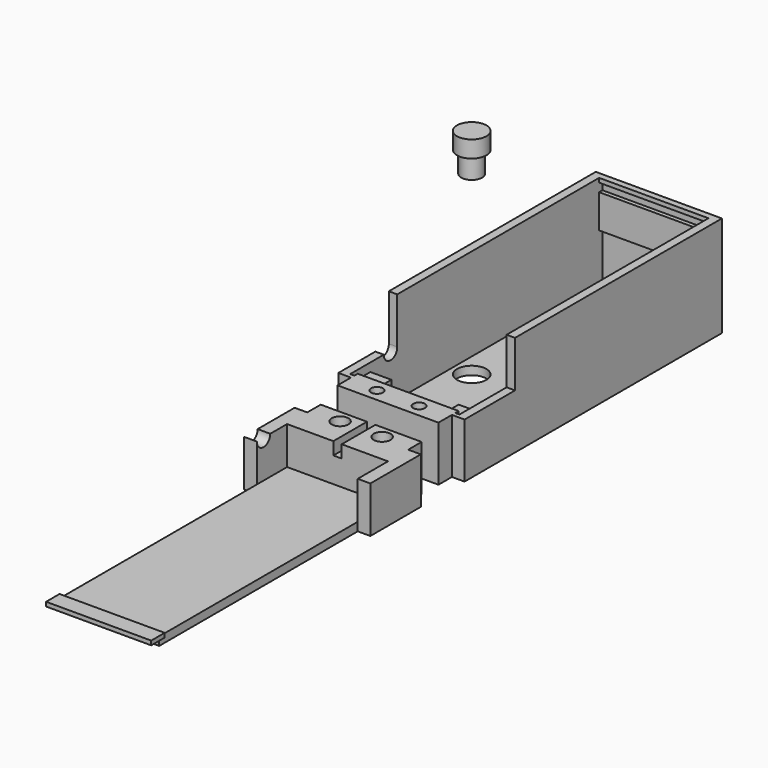
from build123d import *

# Parameters (mm, degrees)
CYLINDER_R                = 1
CYLINDER_DEPTH            = 10
CYLINDER_ROLL_ANGLE       = 90
BOX006_W                  = 9
BOX006_H                  = 5
BOX006_DEPTH              = 3
CYLINDER001_R             = 2
CYLINDER001_DEPTH         = 10
CYLINDER001_PITCH_ANGLE   = 90
BOX012_W                  = 2
BOX012_H                  = 10
BOX012_DEPTH              = 2
CYLINDER002_R             = 3.5
CYLINDER002_DEPTH         = 10
CYLINDER003_R             = 2
CYLINDER003_DEPTH         = 10
CYLINDER004_R             = 2
CYLINDER004_DEPTH         = 10
CYLINDER006_R             = 1.4
CYLINDER006_DEPTH         = 7
CYLINDER005_R             = 1.4
CYLINDER005_DEPTH         = 7
BOX011_W                  = 30
BOX011_H                  = 20
BOX011_DEPTH              = 11
BOX008_W                  = 5
BOX008_H                  = 5
BOX008_DEPTH              = 9
BOX009_W                  = 5
BOX009_H                  = 5
BOX009_DEPTH              = 3
BOX_W                     = 26
BOX_H                     = 75
BOX_DEPTH                 = 22
BOX001_W                  = 30
BOX001_H                  = 76.5
BOX001_DEPTH              = 24
BOX013_W                  = 30
BOX013_H                  = 1
BOX013_DEPTH              = 1
BOX014_W                  = 24
BOX014_H                  = 6
BOX014_DEPTH              = 16
BOX015_W                  = 30
BOX015_H                  = 1
BOX015_DEPTH              = 8
BOX007_W                  = 5
BOX007_H                  = 5
BOX007_DEPTH              = 9
BOX021_W                  = 2
BOX021_H                  = 21
BOX021_DEPTH              = 3
CYLINDER007_R             = 2
CYLINDER007_DEPTH         = 10
CYLINDER007_PITCH_ANGLE   = 90
CYLINDER008_R             = 2
CYLINDER008_DEPTH         = 12
CYLINDER009_R             = 2
CYLINDER009_DEPTH         = 12
BOX019_W                  = 25
BOX019_H                  = 4
BOX019_DEPTH              = 1
BOX018_W                  = 3
BOX018_H                  = 15
BOX018_DEPTH              = 11
BOX017_W                  = 3
BOX017_H                  = 15
BOX017_DEPTH              = 11
BOX016_W                  = 24
BOX016_H                  = 10
BOX016_DEPTH              = 11
BOX020_W                  = 24
BOX020_H                  = 72
BOX020_DEPTH              = 2
CUT003_PLACEMENT_ANGLE    = 180
CYLINDER011_R             = 3.5
CYLINDER011_DEPTH         = 4
CYLINDER010_R             = 2.5
CYLINDER010_DEPTH         = 9
FUSION008_PLACEMENT_ANGLE = 180


with BuildPart() as cylinder:
    # Cylinder → Cylinder (new body)
    with BuildSketch(Plane.XY):
        Circle(CYLINDER_R)
    extrude(amount=CYLINDER_DEPTH)


with BuildPart() as cylinder_1:
    # Cylinder roll: moved
    add(cylinder.part.rotate(Axis((0, 0, 0), (1, 0, 0)), CYLINDER_ROLL_ANGLE))


with BuildPart() as cylinder_2:
    # Cylinder placement: moved
    add(cylinder_1.part.moved(Location((15, 2, 14))))


with BuildPart() as cube006:
    # Box006 → Box006 (new body)
    with BuildSketch(Plane(origin=(10, 71, 5), x_dir=(1, 0, 0), z_dir=(0, 0, 1))):
        with Locations((4.5, 2.5)):
            Rectangle(BOX006_W, BOX006_H)
    extrude(amount=BOX006_DEPTH)


with BuildPart() as cylinder001:
    # Cylinder001 → Cylinder001 (new body)
    with BuildSketch(Plane.XY):
        Circle(CYLINDER001_R)
    extrude(amount=CYLINDER001_DEPTH)


with BuildPart() as cylinder001_1:
    # Cylinder001 pitch: moved
    add(cylinder001.part.rotate(Axis((0, 0, 0), (0, 1, 0)), CYLINDER001_PITCH_ANGLE))


with BuildPart() as cylinder001_2:
    # Cylinder001 placement: moved
    add(cylinder001_1.part.moved(Location((-4, 11, 13))))


with BuildPart() as cube012:
    # Box012 → Box012 (new body)
    with BuildSketch(Plane(origin=(14, -8, 14), x_dir=(1, 0, 0), z_dir=(0, 0, 1))):
        with Locations((1, 5)):
            Rectangle(BOX012_W, BOX012_H)
    extrude(amount=BOX012_DEPTH)


with BuildPart() as cylinder002:
    # Cylinder002 → Cylinder002 (new body)
    with BuildSketch(Plane(origin=(6.5, 29.5, 0), x_dir=(1, 0, 0), z_dir=(0, 0, 1))):
        Circle(CYLINDER002_R)
    extrude(amount=CYLINDER002_DEPTH)


with BuildPart() as cylinder003:
    # Cylinder003 → Cylinder003 (new body)
    with BuildSketch(Plane(origin=(22, 67, 0), x_dir=(1, 0, 0), z_dir=(0, 0, 1))):
        Circle(CYLINDER003_R)
    extrude(amount=CYLINDER003_DEPTH)


with BuildPart() as cylinder004:
    # Cylinder004 → Cylinder004 (new body)
    with BuildSketch(Plane(origin=(23, 31, 0), x_dir=(1, 0, 0), z_dir=(0, 0, 1))):
        Circle(CYLINDER004_R)
    extrude(amount=CYLINDER004_DEPTH)


with BuildPart() as cylinder006:
    # Cylinder006 → Cylinder006 (new body)
    with BuildSketch(Plane(origin=(20, -3, 6), x_dir=(1, 0, 0), z_dir=(0, 0, 1))):
        Circle(CYLINDER006_R)
    extrude(amount=CYLINDER006_DEPTH)


with BuildPart() as fusion001:
    # Cylinder005 → Cylinder005 (new body)
    with BuildSketch(Plane(origin=(10, -3, 6), x_dir=(1, 0, 0), z_dir=(0, 0, 1))):
        Circle(CYLINDER005_R)
    extrude(amount=CYLINDER005_DEPTH)

    # Fusion001: union Cylinder, Cube006, Cylinder001, Cube012, Cylinder002, Cylinder003, Cylinder004, Cylinder006
    add(cylinder_2.part)
    add(cube006.part)
    add(cylinder001_2.part)
    add(cube012.part)
    add(cylinder002.part)
    add(cylinder003.part)
    add(cylinder004.part)
    add(cylinder006.part)


with BuildPart() as cube011:
    # Box011 → Box011 (new body)
    with BuildSketch(Plane(origin=(0, -7, 13), x_dir=(1, 0, 0), z_dir=(0, 0, 1))):
        with Locations((15, 10)):
            Rectangle(BOX011_W, BOX011_H)
    extrude(amount=BOX011_DEPTH)


with BuildPart() as cube008:
    # Box008 → Box008 (new body)
    with BuildSketch(Plane(origin=(23, 0, 2), x_dir=(1, 0, 0), z_dir=(0, 0, 1))):
        with Locations((2.5, 2.5)):
            Rectangle(BOX008_W, BOX008_H)
    extrude(amount=BOX008_DEPTH)


with BuildPart() as cube009:
    # Box009 → Box009 (new body)
    with BuildSketch(Plane(origin=(12, 69, 2), x_dir=(1, 0, 0), z_dir=(0, 0, 1))):
        with Locations((2.5, 2.5)):
            Rectangle(BOX009_W, BOX009_H)
    extrude(amount=BOX009_DEPTH)


with BuildPart() as cube:
    # Box → Box (new body)
    with BuildSketch(Plane(origin=(2, -1, 2), x_dir=(1, 0, 0), z_dir=(0, 0, 1))):
        with Locations((13, 37.5)):
            Rectangle(BOX_W, BOX_H)
    extrude(amount=BOX_DEPTH)


with BuildPart() as cut:
    # Box001 → Box001 (new body)
    with BuildSketch(Plane(origin=(0, -2, 0), x_dir=(1, 0, 0), z_dir=(0, 0, 1))):
        with Locations((15, 38.25)):
            Rectangle(BOX001_W, BOX001_H)
    extrude(amount=BOX001_DEPTH)

    # Cut: cut Cube
    add(cube.part, mode=Mode.SUBTRACT)


with BuildPart() as cube013:
    # Box013 → Box013 (new body)
    with BuildSketch(Plane(origin=(0, 73, 23), x_dir=(1, 0, 0), z_dir=(0, 0, 1))):
        with Locations((15, 0.5)):
            Rectangle(BOX013_W, BOX013_H)
    extrude(amount=BOX013_DEPTH)


with BuildPart() as cube014:
    # Box014 → Box014 (new body)
    with BuildSketch(Plane(origin=(3, -6, 0), x_dir=(1, 0, 0), z_dir=(0, 0, 1))):
        with Locations((12, 3)):
            Rectangle(BOX014_W, BOX014_H)
    extrude(amount=BOX014_DEPTH)


with BuildPart() as cube015:
    # Box015 → Box015 (new body)
    with BuildSketch(Plane(origin=(0, 73, 13), x_dir=(1, 0, 0), z_dir=(0, 0, 1))):
        with Locations((15, 0.5)):
            Rectangle(BOX015_W, BOX015_H)
    extrude(amount=BOX015_DEPTH)


with BuildPart() as cut002:
    # Box007 → Box007 (new body)
    with BuildSketch(Plane(origin=(2, 0, 2), x_dir=(1, 0, 0), z_dir=(0, 0, 1))):
        with Locations((2.5, 2.5)):
            Rectangle(BOX007_W, BOX007_H)
    extrude(amount=BOX007_DEPTH)

    # Fusion: union Cube008, Cube009, Cut, Cube013, Cube014, Cube015
    add(cube008.part)
    add(cube009.part)
    add(cut.part)
    add(cube013.part)
    add(cube014.part)
    add(cube015.part)

    # Cut001: cut Cube011
    add(cube011.part, mode=Mode.SUBTRACT)

    # Cut002: cut Fusion001
    add(fusion001.part, mode=Mode.SUBTRACT)


with BuildPart() as cube021:
    # Box021 → Box021 (new body)
    with BuildSketch(Plane(origin=(14, -12, 13), x_dir=(1, 0, 0), z_dir=(0, 0, 1))):
        with Locations((1, 10.5)):
            Rectangle(BOX021_W, BOX021_H)
    extrude(amount=BOX021_DEPTH)


with BuildPart() as cylinder007:
    # Cylinder007 → Cylinder007 (new body)
    with BuildSketch(Plane.XY):
        Circle(CYLINDER007_R)
    extrude(amount=CYLINDER007_DEPTH)


with BuildPart() as cylinder007_1:
    # Cylinder007 pitch: moved
    add(cylinder007.part.rotate(Axis((0, 0, 0), (0, 1, 0)), CYLINDER007_PITCH_ANGLE))


with BuildPart() as cylinder007_2:
    # Cylinder007 placement: moved
    add(cylinder007_1.part.moved(Location((0, 11, 13))))


with BuildPart() as cylinder008:
    # Cylinder008 → Cylinder008 (new body)
    with BuildSketch(Plane(origin=(20, -3, 13), x_dir=(1, 0, 0), z_dir=(0, 0, 1))):
        Circle(CYLINDER008_R)
    extrude(amount=CYLINDER008_DEPTH)


with BuildPart() as cone001:
    # Cone001 → Cone001 (revolve)
    with BuildSketch(Plane(origin=(20, -3, 21), x_dir=(1, 0, 0), z_dir=(0, -1, 0))):
        Polygon((0, 0), (3, 3), (0, 3), align=None)
    revolve(axis=Axis((20, -3, 21), (0, 0, 1)))


with BuildPart() as cylinder009:
    # Cylinder009 → Cylinder009 (new body)
    with BuildSketch(Plane(origin=(10, -3, 13), x_dir=(1, 0, 0), z_dir=(0, 0, 1))):
        Circle(CYLINDER009_R)
    extrude(amount=CYLINDER009_DEPTH)


with BuildPart() as fusion006:
    # Cone → Cone (revolve)
    with BuildSketch(Plane(origin=(10, -3, 21), x_dir=(1, 0, 0), z_dir=(0, -1, 0))):
        Polygon((0, 0), (3, 3), (0, 3), align=None)
    revolve(axis=Axis((10, -3, 21), (0, 0, 1)))

    # Fusion006: union Cube021, Cylinder007, Cylinder008, Cone001, Cylinder009
    add(cube021.part)
    add(cylinder007_2.part)
    add(cylinder008.part)
    add(cone001.part)
    add(cylinder009.part)


with BuildPart() as cube019:
    # Box019 → Box019 (new body)
    with BuildSketch(Plane(origin=(2.5, 71, 21.5), x_dir=(1, 0, 0), z_dir=(0, 0, 1))):
        with Locations((12.5, 2)):
            Rectangle(BOX019_W, BOX019_H)
    extrude(amount=BOX019_DEPTH)


with BuildPart() as cube018:
    # Box018 → Box018 (new body)
    with BuildSketch(Plane(origin=(27, -2, 13), x_dir=(1, 0, 0), z_dir=(0, 0, 1))):
        with Locations((1.5, 7.5)):
            Rectangle(BOX018_W, BOX018_H)
    extrude(amount=BOX018_DEPTH)


with BuildPart() as cube017:
    # Box017 → Box017 (new body)
    with BuildSketch(Plane(origin=(0, -2, 13), x_dir=(1, 0, 0), z_dir=(0, 0, 1))):
        with Locations((1.5, 7.5)):
            Rectangle(BOX017_W, BOX017_H)
    extrude(amount=BOX017_DEPTH)


with BuildPart() as cube016:
    # Box016 → Box016 (new body)
    with BuildSketch(Plane(origin=(3, -6, 13), x_dir=(1, 0, 0), z_dir=(0, 0, 1))):
        with Locations((12, 5)):
            Rectangle(BOX016_W, BOX016_H)
    extrude(amount=BOX016_DEPTH)


with BuildPart() as cut003:
    # Box020 → Box020 (new body)
    with BuildSketch(Plane(origin=(3, 0, 22), x_dir=(1, 0, 0), z_dir=(0, 0, 1))):
        with Locations((12, 36)):
            Rectangle(BOX020_W, BOX020_H)
    extrude(amount=BOX020_DEPTH)

    # Fusion007: union Cube019, Cube018, Cube017, Cube016
    add(cube019.part)
    add(cube018.part)
    add(cube017.part)
    add(cube016.part)

    # Cut003: cut Fusion006
    add(fusion006.part, mode=Mode.SUBTRACT)


with BuildPart() as cut003_1:
    # Cut003 placement: moved
    add(cut003.part.moved(Location((0, -17, 24))).rotate(Axis((0, -17, 24), (1, 0, 0)), CUT003_PLACEMENT_ANGLE))


with BuildPart() as cylinder011:
    # Cylinder011 → Cylinder011 (new body)
    with BuildSketch(Plane.XY):
        Circle(CYLINDER011_R)
    extrude(amount=CYLINDER011_DEPTH)


with BuildPart() as fusion008:
    # Cylinder010 → Cylinder010 (new body)
    with BuildSketch(Plane.XY):
        Circle(CYLINDER010_R)
    extrude(amount=CYLINDER010_DEPTH)

    # Fusion008: union Cylinder011
    add(cylinder011.part)


with BuildPart() as fusion008_1:
    # Fusion008 placement: moved
    add(fusion008.part.moved(Location((6.5, 29.5, 53))).rotate(Axis((6.5, 29.5, 53), (1, 0, 0)), FUSION008_PLACEMENT_ANGLE))


solid = Compound([cut002.part, cut003_1.part, fusion008_1.part])
